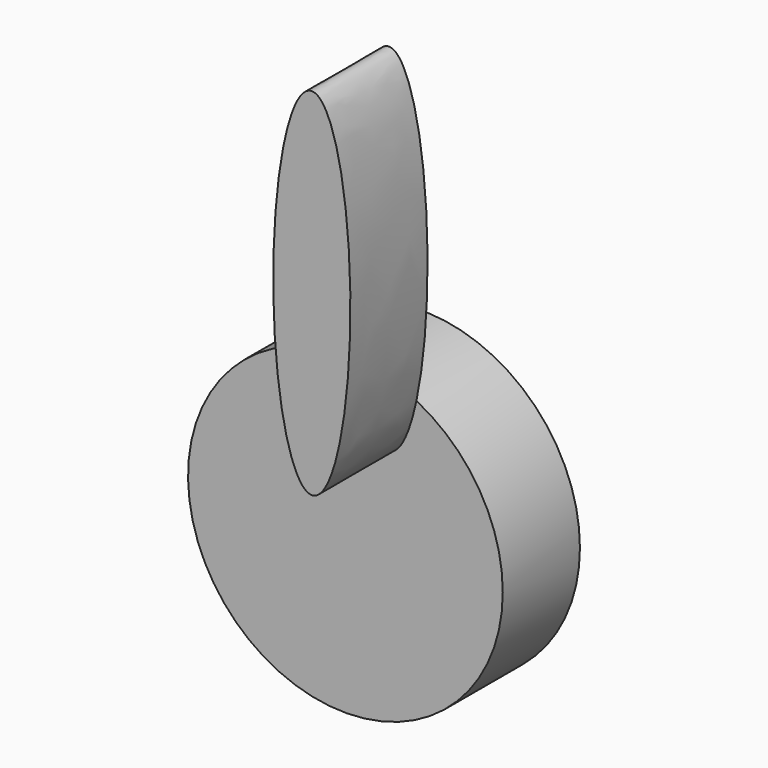
from build123d import *

# Parameters (mm, degrees)
F0_R     = 41.433689
F1_DEPTH = 25.4
F3_DEPTH = 25.4


with BuildPart() as f1:
    # F0 (on Front) → F1 (new body)
    with BuildSketch(Plane.XZ):
        with Locations((55.51289, 41.636854)):
            Circle(F0_R)
    extrude(amount=F1_DEPTH)

    # F2 (on face) → F3 (join)
    with BuildSketch(Plane.XZ.offset(25.4)):
        with BuildLine():
            add(Edge.make_bspline(
                [(66.990055, 64.708859), (84.587578, 64.708859), (75.788816, 134.949967), (66.990055, 205.191076), (58.191294, 134.949967), (49.392533, 64.708859), (66.990055, 64.708859)],
                knots=[0, 0, 0, 2.094395, 2.094395, 4.18879, 4.18879, 6.283185, 6.283185, 6.283185], degree=2, weights=[1, 0.5, 1, 0.5, 1, 0.5, 1]))
        make_face()
    extrude(amount=F3_DEPTH)


solid = f1.part
